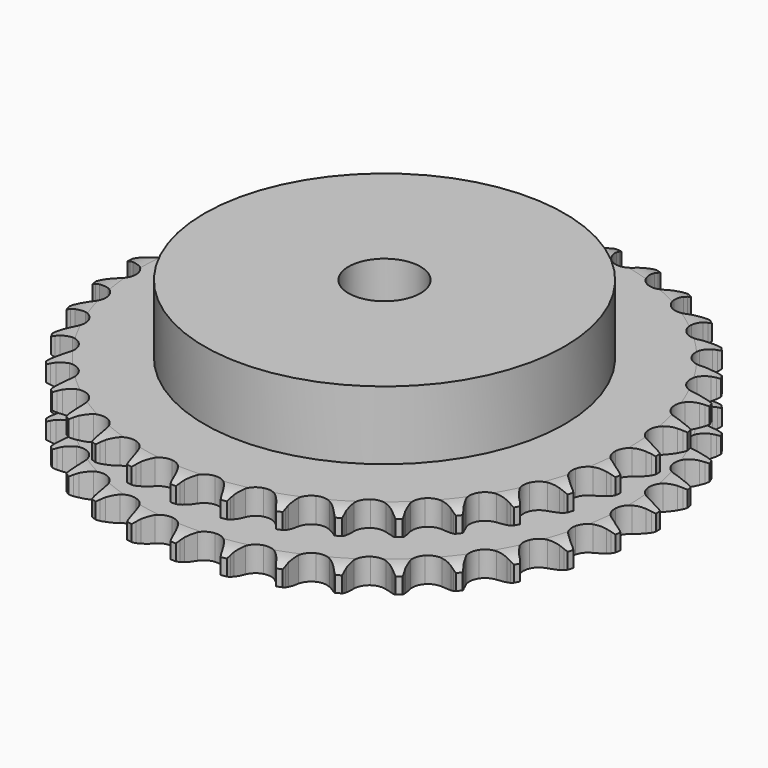
from build123d import *

# Parameters (mm, degrees)
PAD_DEPTH         = 21
SKETCH001_R       = 50
PAD001_DEPTH      = 40
SKETCH002_R       = 10
POCKET_DEPTH      = 0.001
POCKET_DEPTH_BACK = 40.001


with BuildPart() as part:
    # Sprocket → Pad (new body)
    with BuildSketch(Plane.XY):
        with BuildLine():
            ThreePointArc((-6.691346, 74.34694), (-5.938959, 73.318588), (-5.388264, 72.169532))
            Line((-5.388264, 72.169532), (-4.973116, 71.048101))
            ThreePointArc((-4.973116, 71.048101), (-4.315736, 69.599875), (-3.458518, 68.260216))
            ThreePointArc((-3.458518, 68.260216), (-1.934686, 66.983187), (0, 66.525082))
            ThreePointArc((0, 66.525082), (1.934686, 66.983187), (3.458518, 68.260216))
            ThreePointArc((3.458518, 68.260216), (4.315736, 69.599875), (4.973116, 71.048101))
            Line((4.973116, 71.048101), (5.388264, 72.169532))
            ThreePointArc((5.388264, 72.169532), (5.938959, 73.318588), (6.691346, 74.34694))
            ThreePointArc((6.691346, 74.34694), (7.248022, 73.20077), (7.584695, 71.97185))
            Line((7.584695, 71.97185), (7.792932, 70.794313))
            ThreePointArc((7.792932, 70.794313), (8.181157, 69.25198), (8.785394, 67.780788))
            ThreePointArc((8.785394, 67.780788), (10.056715, 66.252191), (11.878512, 65.455997))
            ThreePointArc((11.878512, 65.455997), (13.863904, 65.561288), (15.59127, 66.545704))
            Line((15.59127, 66.545704), (17.579324, 69.018345))
            ThreePointArc((17.579324, 69.018345), (17.869839, 69.541172), (18.18804, 70.047626))
            ThreePointArc((18.18804, 70.047626), (18.935057, 71.079886), (19.858972, 71.957368))
            ThreePointArc((19.858972, 71.957368), (20.202046, 70.730219), (20.313876, 69.460933))
            Line((20.313876, 69.460933), (20.308509, 68.265137))
            ThreePointArc((20.308509, 68.265137), (20.415101, 66.678271), (20.746936, 65.122831))
            ThreePointArc((20.746936, 65.122831), (21.724885, 63.391795), (23.375239, 62.283102))
            ThreePointArc((23.375239, 62.283102), (25.347526, 62.032195), (27.222906, 62.692358))
            Line((27.222906, 62.692358), (29.620519, 64.770282))
            ThreePointArc((29.620519, 64.770282), (29.999719, 65.232834), (30.403237, 65.674332))
            ThreePointArc((30.403237, 65.674332), (31.322566, 66.556618), (32.388314, 67.255027))
            ThreePointArc((32.388314, 67.255027), (32.506759, 65.986341), (32.390152, 64.717485))
            Line((32.390152, 64.717485), (32.171354, 63.541864))
            ThreePointArc((32.171354, 63.541864), (31.992887, 61.961466), (32.041655, 60.371771))
            ThreePointArc((32.041655, 60.371771), (32.6948, 58.493935), (34.120667, 57.108377))
            ThreePointArc((34.120667, 57.108377), (36.016457, 56.509337), (37.979576, 56.824029))
            Line((37.979576, 56.824029), (40.709685, 58.440449))
            ThreePointArc((40.709685, 58.440449), (41.165384, 58.827859), (41.64125, 59.190211))
            ThreePointArc((41.64125, 59.190211), (42.703343, 59.894166), (43.876669, 60.391055))
            ThreePointArc((43.876669, 60.391055), (43.766678, 59.121607), (43.425382, 57.893963))
            Line((43.425382, 57.893963), (43.000185, 56.776303))
            ThreePointArc((43.000185, 56.776303), (42.542395, 55.253169), (42.306528, 53.680314))
            ThreePointArc((42.306528, 53.680314), (42.613876, 51.716031), (43.769428, 50.098141))
            ThreePointArc((43.769428, 50.098141), (45.527789, 49.170222), (47.515551, 49.129328))
            Line((47.515551, 49.129328), (50.490409, 50.232292))
            ThreePointArc((50.490409, 50.232292), (51.007959, 50.532108), (51.540878, 50.803668))
            ThreePointArc((51.540878, 50.803668), (52.711599, 51.306666), (53.954792, 51.586064))
            ThreePointArc((53.954792, 51.586064), (53.6199, 50.356657), (53.064885, 49.209682))
            Line((53.064885, 49.209682), (52.446955, 48.185905))
            ThreePointArc((52.446955, 48.185905), (51.724556, 46.76899), (51.211635, 45.263527))
            ThreePointArc((51.211635, 45.263527), (51.163307, 43.275932), (52.011404, 41.47771))
            ThreePointArc((52.011404, 41.47771), (53.575821, 40.250736), (55.524336, 39.85557))
            Line((55.524336, 39.85557), (58.648329, 40.409628))
            ThreePointArc((58.648329, 40.409628), (59.211096, 40.612213), (59.78394, 40.784253))
            ThreePointArc((59.78394, 40.784253), (61.025661, 41.070127), (62.298764, 41.123054))
            ThreePointArc((62.298764, 41.123054), (61.749735, 39.973202), (60.998838, 38.943761))
            Line((60.998838, 38.943761), (60.208036, 38.046772))
            ThreePointArc((60.208036, 38.046772), (59.244247, 36.781617), (58.470758, 35.391933))
            ThreePointArc((58.470758, 35.391933), (58.068308, 33.444909), (58.58169, 31.524152))
            ThreePointArc((58.58169, 31.524152), (59.901882, 30.037558), (61.748524, 29.300822))
            Line((61.748524, 29.300822), (64.921244, 29.288165))
            ThreePointArc((64.921244, 29.288165), (65.51114, 29.387009), (66.105497, 29.453999))
            ThreePointArc((66.105497, 29.453999), (67.378307, 29.513561), (68.640402, 29.338316))
            ThreePointArc((68.640402, 29.338316), (67.894882, 28.304975), (66.972239, 27.426155))
            Line((66.972239, 27.426155), (66.033982, 26.684785))
            ThreePointArc((66.033982, 26.684785), (64.859779, 25.612053), (63.850582, 24.382813))
            ThreePointArc((63.850582, 24.382813), (63.106945, 22.538938), (63.269113, 20.557381))
            ThreePointArc((63.269113, 20.557381), (64.302647, 18.858948), (65.988064, 17.804321))
            Line((65.988064, 17.804321), (69.107537, 17.225356))
            ThreePointArc((69.107537, 17.225356), (69.705602, 17.217282), (70.302369, 17.177068))
            ThreePointArc((70.302369, 17.177068), (71.56536, 17.008404), (72.775881, 16.61062))
            ThreePointArc((72.775881, 16.61062), (71.857832, 15.727003), (70.793096, 15.027051))
            Line((70.793096, 15.027051), (69.737541, 14.465127))
            ThreePointArc((69.737541, 14.465127), (68.390664, 13.619296), (67.178197, 12.590009))
            ThreePointArc((67.178197, 12.590009), (66.117274, 10.908548), (65.923015, 8.929879))
            ThreePointArc((65.923015, 8.929879), (66.636672, 7.074196), (68.106693, 5.735574))
            Line((68.106693, 5.735574), (71.072656, 4.60891))
            ThreePointArc((71.072656, 4.60891), (71.659669, 4.494177), (72.239665, 4.348053))
            ThreePointArc((72.239665, 4.348053), (73.452243, 3.956584), (74.572284, 3.349045))
            ThreePointArc((74.572284, 3.349045), (73.511211, 2.643553), (72.338606, 2.144964))
            Line((72.338606, 2.144964), (71.199678, 1.780547))
            ThreePointArc((71.199678, 1.780547), (69.723417, 1.188804), (68.346648, 0.392552))
            ThreePointArc((68.346648, 0.392552), (67.002538, -1.072452), (66.458096, -2.984637))
            ThreePointArc((66.458096, -2.984637), (66.82894, -4.937927), (68.036317, -6.517518))
            Line((68.036317, -6.517518), (70.753442, -8.155669))
            ThreePointArc((70.753442, -8.155669), (71.310535, -8.373374), (71.855119, -8.620712))
            ThreePointArc((71.855119, -8.620712), (72.978311, -9.222405), (73.971871, -10.020171))
            ThreePointArc((73.971871, -10.020171), (72.801881, -10.524864), (71.559093, -10.806063))
            Line((71.559093, -10.806063), (70.373399, -10.96126))
            ThreePointArc((70.373399, -10.96126), (68.815202, -11.279898), (67.318382, -11.817521))
            ThreePointArc((67.318382, -11.817521), (65.734286, -13.018982), (64.85716, -14.803223))
            ThreePointArc((64.85716, -14.803223), (64.87327, -16.79134), (65.779197, -18.561133))
            Line((65.779197, -18.561133), (68.160154, -20.658119))
            ThreePointArc((68.160154, -20.658119), (68.669421, -20.971799), (69.16109, -21.312401))
            ThreePointArc((69.16109, -21.312401), (70.158795, -22.104977), (70.993942, -23.06733))
            ThreePointArc((70.993942, -23.06733), (69.752637, -23.355003), (68.479612, -23.409774))
            Line((68.479612, -23.409774), (67.285261, -23.350764))
            ThreePointArc((67.285261, -23.350764), (65.69521, -23.386054), (64.126448, -23.64777))
            ThreePointArc((64.126448, -23.64777), (62.35328, -24.547072), (61.171661, -26.146023))
            ThreePointArc((61.171661, -26.146023), (60.832521, -28.105066), (61.40788, -30.008177))
            Line((61.40788, -30.008177), (63.376143, -32.4966))
            ThreePointArc((63.376143, -32.4966), (63.821216, -32.896172), (64.244167, -33.319091))
            ThreePointArc((64.244167, -33.319091), (65.084319, -34.277078), (65.73421, -35.373087))
            ThreePointArc((65.73421, -35.373087), (64.461487, -35.434493), (63.19914, -35.261076))
            Line((63.19914, -35.261076), (62.034519, -34.989755))
            ThreePointArc((62.034519, -34.989755), (60.46372, -34.740563), (58.873438, -34.71796))
            ThreePointArc((58.873438, -34.71796), (56.968189, -35.286198), (55.520054, -36.648467))
            ThreePointArc((55.520054, -36.648467), (54.836564, -38.515472), (55.062864, -40.490733))
            Line((55.062864, -40.490733), (56.55517, -43.290614))
            ThreePointArc((56.55517, -43.290614), (56.921745, -43.763235), (57.262383, -44.254878))
            ThreePointArc((57.262383, -44.254878), (57.917978, -45.347485), (58.361725, -46.541923))
            ThreePointArc((58.361725, -46.541923), (57.098491, -46.375089), (55.887395, -45.979059))
            Line((55.887395, -45.979059), (54.789937, -45.504146))
            ThreePointArc((54.789937, -45.504146), (53.288876, -44.978482), (51.728186, -44.672287))
            ThreePointArc((51.728186, -44.672287), (49.752092, -44.891198), (48.083988, -45.973))
            ThreePointArc((48.083988, -45.973), (47.078114, -47.687959), (46.948081, -49.671885))
            Line((46.948081, -49.671885), (47.916468, -52.693232))
            ThreePointArc((47.916468, -52.693232), (48.192762, -53.223712), (48.440139, -53.768278))
            ThreePointArc((48.440139, -53.768278), (48.890106, -54.960386), (49.113447, -56.214864))
            ThreePointArc((49.113447, -56.214864), (47.900303, -55.825151), (46.779384, -55.219236))
            Line((46.779384, -55.219236), (45.784361, -54.555997))
            ThreePointArc((45.784361, -54.555997), (44.401284, -53.770755), (42.920348, -53.190809))
            ThreePointArc((42.920348, -53.190809), (40.936923, -53.053357), (39.102462, -53.819922))
            ThreePointArc((39.102462, -53.819922), (37.806536, -55.327716), (37.324349, -57.256541))
            Line((37.324349, -57.256541), (37.737691, -60.402245))
            ThreePointArc((37.737691, -60.402245), (37.914824, -60.973535), (38.06099, -61.55352))
            ThreePointArc((38.06099, -61.55352), (38.290866, -62.806816), (38.286622, -64.081012))
            ThreePointArc((38.286622, -64.081012), (37.16256, -63.480948), (36.167845, -62.684622))
            Line((36.167845, -62.684622), (35.307238, -61.854373))
            ThreePointArc((35.307238, -61.854373), (34.086598, -60.834793), (32.733015, -59.999735))
            ThreePointArc((32.733015, -59.999735), (30.806007, -59.510337), (28.864151, -59.937028))
            ThreePointArc((28.864151, -59.937028), (27.319824, -61.189195), (26.500981, -63.000924))
            Line((26.500981, -63.000924), (26.345993, -66.169881))
            ThreePointArc((26.345993, -66.169881), (26.418272, -66.763618), (26.458528, -67.360382))
            ThreePointArc((26.458528, -67.360382), (26.460926, -68.634583), (26.229234, -69.887544))
            ThreePointArc((26.229234, -69.887544), (25.230381, -69.096414), (24.393841, -68.135272))
            Line((24.393841, -68.135272), (23.695312, -67.164699))
            ThreePointArc((23.695312, -67.164699), (22.67634, -65.943549), (21.493615, -64.88022))
            ThreePointArc((21.493615, -64.88022), (19.684961, -64.054607), (17.698123, -64.127709))
            ThreePointArc((17.698123, -64.127709), (15.955031, -65.084002), (14.82585, -66.720406))
            Line((14.82585, -66.720406), (14.107514, -69.810763))
            ThreePointArc((14.107514, -69.810763), (14.072615, -70.407864), (14.005668, -71.002225))
            ThreePointArc((14.005668, -71.002225), (13.78051, -72.256378), (13.328817, -73.447833))
            ThreePointArc((13.328817, -73.447833), (12.487278, -72.491065), (11.835799, -71.395999))
            Line((11.835799, -71.395999), (11.321798, -70.316296))
            ThreePointArc((11.321798, -70.316296), (10.537247, -68.932826), (9.563393, -67.675401))
            ThreePointArc((9.563393, -67.675401), (7.931224, -66.540108), (5.963262, -66.257272))
            ThreePointArc((5.963262, -66.257272), (4.077429, -66.886956), (2.674204, -68.29544))
            Line((2.674204, -68.29544), (1.415607, -71.207869))
            ThreePointArc((1.415607, -71.207869), (1.274653, -71.789143), (1.102655, -72.361999))
            ThreePointArc((1.102655, -72.361999), (0.657177, -73.555793), (0, -74.647449))
            ThreePointArc((0, -74.647449), (-0.657177, -73.555793), (-1.102655, -72.361999))
            Line((-1.102655, -72.361999), (-1.415607, -71.207869))
            ThreePointArc((-1.415607, -71.207869), (-1.940523, -69.706546), (-2.674204, -68.29544))
            ThreePointArc((-2.674204, -68.29544), (-4.077429, -66.886956), (-5.963262, -66.257272))
            ThreePointArc((-5.963262, -66.257272), (-7.931224, -66.540108), (-9.563393, -67.675401))
            Line((-9.563393, -67.675401), (-11.321798, -70.316296))
            ThreePointArc((-11.321798, -70.316296), (-11.564278, -70.86306), (-11.835799, -71.395999))
            ThreePointArc((-11.835799, -71.395999), (-12.487278, -72.491065), (-13.328817, -73.447833))
            ThreePointArc((-13.328817, -73.447833), (-13.78051, -72.256378), (-14.005668, -71.002225))
            Line((-14.005668, -71.002225), (-14.107514, -69.810763))
            ThreePointArc((-14.107514, -69.810763), (-14.355922, -68.239839), (-14.82585, -66.720406))
            ThreePointArc((-14.82585, -66.720406), (-15.955031, -65.084002), (-17.698123, -64.127709))
            ThreePointArc((-17.698123, -64.127709), (-19.684961, -64.054607), (-21.493615, -64.88022))
            Line((-21.493615, -64.88022), (-23.695312, -67.164699))
            ThreePointArc((-23.695312, -67.164699), (-24.031523, -67.65938), (-24.393841, -68.135272))
            ThreePointArc((-24.393841, -68.135272), (-25.230381, -69.096414), (-26.229234, -69.887544))
            ThreePointArc((-26.229234, -69.887544), (-26.460926, -68.634583), (-26.458528, -67.360382))
            Line((-26.458528, -67.360382), (-26.345993, -66.169881))
            ThreePointArc((-26.345993, -66.169881), (-26.30991, -64.579848), (-26.500981, -63.000924))
            ThreePointArc((-26.500981, -63.000924), (-27.319824, -61.189195), (-28.864151, -59.937028))
            ThreePointArc((-28.864151, -59.937028), (-30.806007, -59.510337), (-32.733015, -59.999735))
            Line((-32.733015, -59.999735), (-35.307238, -61.854373))
            ThreePointArc((-35.307238, -61.854373), (-35.726376, -62.281072), (-36.167845, -62.684622))
            ThreePointArc((-36.167845, -62.684622), (-37.16256, -63.480948), (-38.286622, -64.081012))
            ThreePointArc((-38.286622, -64.081012), (-38.290866, -62.806816), (-38.06099, -61.55352))
            Line((-38.06099, -61.55352), (-37.737691, -60.402245))
            ThreePointArc((-37.737691, -60.402245), (-37.418276, -58.844207), (-37.324349, -57.256541))
            ThreePointArc((-37.324349, -57.256541), (-37.806536, -55.327716), (-39.102462, -53.819922))
            ThreePointArc((-39.102462, -53.819922), (-40.936923, -53.053357), (-42.920348, -53.190809))
            Line((-42.920348, -53.190809), (-45.784361, -54.555997))
            ThreePointArc((-45.784361, -54.555997), (-46.272953, -54.900998), (-46.779384, -55.219236))
            ThreePointArc((-46.779384, -55.219236), (-47.900303, -55.825151), (-49.113447, -56.214864))
            ThreePointArc((-49.113447, -56.214864), (-48.890106, -54.960386), (-48.440139, -53.768278))
            Line((-48.440139, -53.768278), (-47.916468, -52.693232))
            ThreePointArc((-47.916468, -52.693232), (-47.323988, -51.217265), (-46.948081, -49.671885))
            ThreePointArc((-46.948081, -49.671885), (-47.078114, -47.687959), (-48.083988, -45.973))
            ThreePointArc((-48.083988, -45.973), (-49.752092, -44.891198), (-51.728186, -44.672287))
            Line((-51.728186, -44.672287), (-54.789937, -45.504146))
            ThreePointArc((-54.789937, -45.504146), (-55.332279, -45.756362), (-55.887395, -45.979059))
            ThreePointArc((-55.887395, -45.979059), (-57.098491, -46.375089), (-58.361725, -46.541923))
            ThreePointArc((-58.361725, -46.541923), (-57.917978, -45.347485), (-57.262383, -44.254878))
            Line((-57.262383, -44.254878), (-56.55517, -43.290614))
            ThreePointArc((-56.55517, -43.290614), (-55.708668, -41.944159), (-55.062864, -40.490733))
            ThreePointArc((-55.062864, -40.490733), (-54.836564, -38.515472), (-55.520054, -36.648467))
            ThreePointArc((-55.520054, -36.648467), (-56.968189, -35.286198), (-58.873438, -34.71796))
            Line((-58.873438, -34.71796), (-62.034519, -34.989755))
            ThreePointArc((-62.034519, -34.989755), (-62.613181, -35.141079), (-63.19914, -35.261076))
            ThreePointArc((-63.19914, -35.261076), (-64.461487, -35.434493), (-65.73421, -35.373087))
            ThreePointArc((-65.73421, -35.373087), (-65.084319, -34.277078), (-64.244167, -33.319091))
            Line((-64.244167, -33.319091), (-63.376143, -32.4966))
            ThreePointArc((-63.376143, -32.4966), (-62.302825, -31.322932), (-61.40788, -30.008177))
            ThreePointArc((-61.40788, -30.008177), (-60.832521, -28.105066), (-61.171661, -26.146023))
            ThreePointArc((-61.171661, -26.146023), (-62.35328, -24.547072), (-64.126448, -23.64777))
            Line((-64.126448, -23.64777), (-67.285261, -23.350764))
            ThreePointArc((-67.285261, -23.350764), (-67.881643, -23.396332), (-68.479612, -23.409774))
            ThreePointArc((-68.479612, -23.409774), (-69.752637, -23.355003), (-70.993942, -23.06733))
            ThreePointArc((-70.993942, -23.06733), (-70.158795, -22.104977), (-69.16109, -21.312401))
            Line((-69.16109, -21.312401), (-68.160154, -20.658119))
            ThreePointArc((-68.160154, -20.658119), (-66.894519, -19.694961), (-65.779197, -18.561133))
            ThreePointArc((-65.779197, -18.561133), (-64.87327, -16.79134), (-64.85716, -14.803223))
            ThreePointArc((-64.85716, -14.803223), (-65.734286, -13.018982), (-67.318382, -11.817521))
            Line((-67.318382, -11.817521), (-70.373399, -10.96126))
            ThreePointArc((-70.373399, -10.96126), (-70.968333, -10.899608), (-71.559093, -10.806063))
            ThreePointArc((-71.559093, -10.806063), (-72.801881, -10.524864), (-73.971871, -10.020171))
            ThreePointArc((-73.971871, -10.020171), (-72.978311, -9.222405), (-71.855119, -8.620712))
            Line((-71.855119, -8.620712), (-70.753442, -8.155669))
            ThreePointArc((-70.753442, -8.155669), (-69.336167, -7.433977), (-68.036317, -6.517518))
            ThreePointArc((-68.036317, -6.517518), (-66.82894, -4.937927), (-66.458096, -2.984637))
            ThreePointArc((-66.458096, -2.984637), (-67.002538, -1.072452), (-68.346648, 0.392552))
            Line((-68.346648, 0.392552), (-71.199678, 1.780547))
            ThreePointArc((-71.199678, 1.780547), (-71.774043, 1.947439), (-72.338606, 2.144964))
            ThreePointArc((-72.338606, 2.144964), (-73.511211, 2.643553), (-74.572284, 3.349045))
            ThreePointArc((-74.572284, 3.349045), (-73.452243, 3.956584), (-72.239665, 4.348053))
            Line((-72.239665, 4.348053), (-71.072656, 4.60891))
            ThreePointArc((-71.072656, 4.60891), (-69.549294, 5.065941), (-68.106693, 5.735574))
            ThreePointArc((-68.106693, 5.735574), (-66.636672, 7.074196), (-65.923015, 8.929879))
            ThreePointArc((-65.923015, 8.929879), (-66.117274, 10.908548), (-67.178197, 12.590009))
            Line((-67.178197, 12.590009), (-69.737541, 14.465127))
            ThreePointArc((-69.737541, 14.465127), (-70.272876, 14.731893), (-70.793096, 15.027051))
            ThreePointArc((-70.793096, 15.027051), (-71.857832, 15.727003), (-72.775881, 16.61062))
            ThreePointArc((-72.775881, 16.61062), (-71.56536, 17.008404), (-70.302369, 17.177068))
            Line((-70.302369, 17.177068), (-69.107537, 17.225356))
            ThreePointArc((-69.107537, 17.225356), (-67.52705, 17.403035), (-65.988064, 17.804321))
            ThreePointArc((-65.988064, 17.804321), (-64.302647, 18.858948), (-63.269113, 20.557381))
            ThreePointArc((-63.269113, 20.557381), (-63.106945, 22.538938), (-63.850582, 24.382813))
            Line((-63.850582, 24.382813), (-66.033982, 26.684785))
            ThreePointArc((-66.033982, 26.684785), (-66.513081, 27.042852), (-66.972239, 27.426155))
            ThreePointArc((-66.972239, 27.426155), (-67.894882, 28.304975), (-68.640402, 29.338316))
            ThreePointArc((-68.640402, 29.338316), (-67.378307, 29.513561), (-66.105497, 29.453999))
            Line((-66.105497, 29.453999), (-64.921244, 29.288165))
            ThreePointArc((-64.921244, 29.288165), (-63.334431, 29.180782), (-61.748524, 29.300822))
            ThreePointArc((-61.748524, 29.300822), (-59.901882, 30.037558), (-58.58169, 31.524152))
            ThreePointArc((-58.58169, 31.524152), (-58.068308, 33.444909), (-58.470758, 35.391933))
            Line((-58.470758, 35.391933), (-60.208036, 38.046772))
            ThreePointArc((-60.208036, 38.046772), (-60.615501, 38.484631), (-60.998838, 38.943761))
            ThreePointArc((-60.998838, 38.943761), (-61.749735, 39.973202), (-62.298764, 41.123054))
            ThreePointArc((-62.298764, 41.123054), (-61.025661, 41.070127), (-59.78394, 40.784253))
            Line((-59.78394, 40.784253), (-58.648329, 40.409628))
            ThreePointArc((-58.648329, 40.409628), (-57.10619, 40.020634), (-55.524336, 39.85557))
            ThreePointArc((-55.524336, 39.85557), (-53.575821, 40.250736), (-52.011404, 41.47771))
            ThreePointArc((-52.011404, 41.47771), (-51.163307, 43.275932), (-51.211635, 45.263527))
            Line((-51.211635, 45.263527), (-52.446955, 48.185905))
            ThreePointArc((-52.446955, 48.185905), (-52.769689, 48.689483), (-53.064885, 49.209682))
            ThreePointArc((-53.064885, 49.209682), (-53.6199, 50.356657), (-53.954792, 51.586064))
            ThreePointArc((-53.954792, 51.586064), (-52.711599, 51.306666), (-51.540878, 50.803668))
            Line((-51.540878, 50.803668), (-50.490409, 50.232292))
            ThreePointArc((-50.490409, 50.232292), (-49.04251, 49.57419), (-47.515551, 49.129328))
            ThreePointArc((-47.515551, 49.129328), (-45.527789, 49.170222), (-43.769428, 50.098141))
            ThreePointArc((-43.769428, 50.098141), (-42.613876, 51.716031), (-42.306528, 53.680314))
            Line((-42.306528, 53.680314), (-43.000185, 56.776303))
            ThreePointArc((-43.000185, 56.776303), (-43.227815, 57.329415), (-43.425382, 57.893963))
            ThreePointArc((-43.425382, 57.893963), (-43.766678, 59.121607), (-43.876669, 60.391055))
            ThreePointArc((-43.876669, 60.391055), (-42.703343, 59.894166), (-41.64125, 59.190211))
            Line((-41.64125, 59.190211), (-40.709685, 58.440449))
            ThreePointArc((-40.709685, 58.440449), (-39.402564, 57.534391), (-37.979576, 56.824029))
            ThreePointArc((-37.979576, 56.824029), (-36.016457, 56.509337), (-34.120667, 57.108377))
            ThreePointArc((-34.120667, 57.108377), (-32.6948, 58.493935), (-32.041655, 60.371771))
            Line((-32.041655, 60.371771), (-32.171354, 63.541864))
            ThreePointArc((-32.171354, 63.541864), (-32.296564, 64.126732), (-32.390152, 64.717485))
            ThreePointArc((-32.390152, 64.717485), (-32.506759, 65.986341), (-32.388314, 67.255027))
            ThreePointArc((-32.388314, 67.255027), (-31.322566, 66.556618), (-30.403237, 65.674332))
            Line((-30.403237, 65.674332), (-29.620519, 64.770282))
            ThreePointArc((-29.620519, 64.770282), (-28.496186, 63.645389), (-27.222906, 62.692358))
            ThreePointArc((-27.222906, 62.692358), (-25.347526, 62.032195), (-23.375239, 62.283102))
            ThreePointArc((-23.375239, 62.283102), (-21.724885, 63.391795), (-20.746936, 65.122831))
            Line((-20.746936, 65.122831), (-20.308509, 68.265137))
            ThreePointArc((-20.308509, 68.265137), (-20.327275, 68.862963), (-20.313876, 69.460933))
            ThreePointArc((-20.313876, 69.460933), (-20.202046, 70.730219), (-19.858972, 71.957368))
            ThreePointArc((-19.858972, 71.957368), (-18.935057, 71.079886), (-18.18804, 70.047626))
            Line((-18.18804, 70.047626), (-17.579324, 69.018345))
            ThreePointArc((-17.579324, 69.018345), (-16.673918, 67.710772), (-15.59127, 66.545704))
            ThreePointArc((-15.59127, 66.545704), (-13.863904, 65.561288), (-11.878512, 65.455997))
            ThreePointArc((-11.878512, 65.455997), (-10.056715, 66.252191), (-8.785394, 67.780788))
            Line((-8.785394, 67.780788), (-7.792932, 70.794313))
            ThreePointArc((-7.792932, 70.794313), (-7.70465, 71.385882), (-7.584695, 71.97185))
            ThreePointArc((-7.584695, 71.97185), (-7.248022, 73.20077), (-6.691346, 74.34694))
        make_face()
    extrude(amount=PAD_DEPTH)

    # Sketch → Groove (revolve, cut)
    with BuildSketch(Plane.XZ):
        with BuildLine():
            ThreePointArc((67.683431, 0), (70.59032, 0.329167), (73.35, 1.3))
            Line((73.35, 1.3), (73.35, 5.7))
            ThreePointArc((73.35, 5.7), (70.59032, 6.670833), (67.683431, 7))
            Line((50, 7), (67.683431, 7))
            Line((50, 14), (50, 7))
            Line((67.683431, 14), (50, 14))
            ThreePointArc((67.683431, 14), (70.59032, 14.329167), (73.35, 15.3))
            Line((73.35, 15.3), (73.35, 19.7))
            ThreePointArc((73.35, 19.7), (70.59032, 20.670833), (67.683431, 21))
            Line((67.683431, 21), (77.683431, 21))
            Line((77.683431, 21), (77.683431, 0))
            Line((67.683431, 0), (77.683431, 0))
        make_face()
    revolve(axis=Axis((0, 0, 0), (0, 0, 1)), mode=Mode.SUBTRACT)

    # Sketch001 → Pad001 (join)
    with BuildSketch(Plane.XY):
        Circle(SKETCH001_R)
    extrude(amount=PAD001_DEPTH)

    # Sketch002 → Pocket (cut, two sides)
    with BuildSketch(Plane.XY) as pocket_sk:
        Circle(SKETCH002_R)
    extrude(amount=-POCKET_DEPTH, mode=Mode.SUBTRACT)
    extrude(pocket_sk.sketch, amount=POCKET_DEPTH_BACK, mode=Mode.SUBTRACT)


solid = part.part
